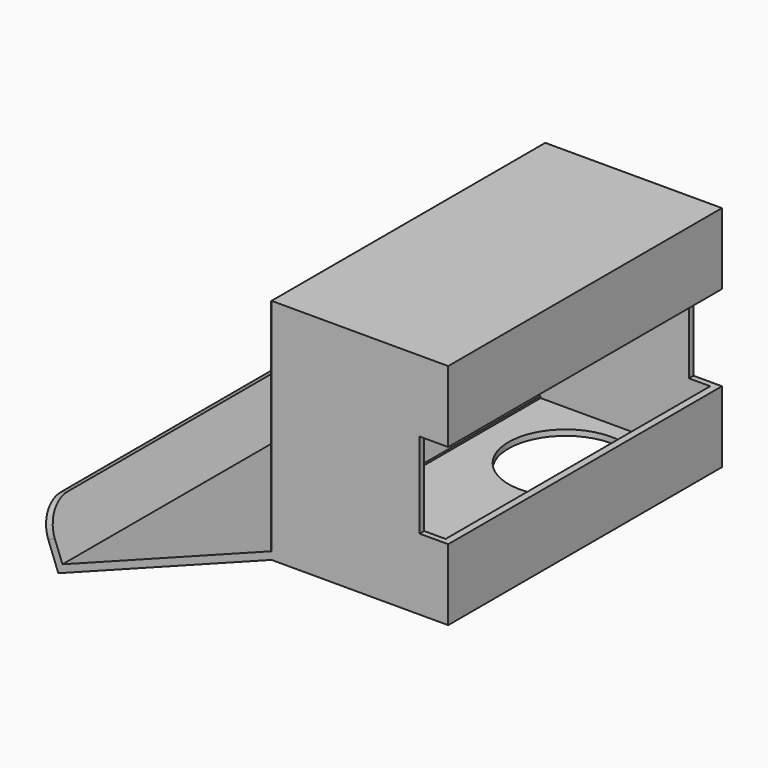
from build123d import *

# Parameters (mm, degrees)
F0_R       = 4.7625
F1_DEPTH   = 19.05
F2_W       = 3.175
F2_H       = 3.3072910916
F3_DEPTH   = 12.7
F4_W       = 152.4
F4_H       = 101.6
F5_DEPTH   = 76.2
F6_T       = -2.54
F7_W       = 152.4
F7_H       = 101.6
F8_DEPTH   = 3.175
F9_W       = 177.8
F9_H       = 38.1
F10_DEPTH  = 12.7
F11_R      = 25.4
F12_DEPTH  = 25.4
F13_R      = 0.79375
F14_DEPTH  = 4.7625
F15_SIZE   = 0.6858
F15_2_SIZE = 0.6858
F16_R      = 1.5875
F17_DEPTH  = 1.27
F18_R      = 0.762
F19_W      = 0.2193674445
F19_H      = 1.16994977
F20_DEPTH  = 0.762
F21_W      = 0.8484892041
F21_H      = 0.2032797784
F22_DEPTH  = 0.762
F24_W      = 147.32
F24_H      = 96.52
F25_DEPTH  = 25.4
F27_DEPTH  = 152.4
F28_R      = 12.7


with BuildPart() as f1:
    # F0 (on Front) → F1 (new body, symmetric)
    with BuildSketch(Plane.XZ):
        Circle(F0_R)
    extrude(amount=F1_DEPTH, both=True)

    # F2 (on Right) → F3 (cut, symmetric)
    with BuildSketch(Plane.YZ):
        with Locations((0, 4.8286455458)):
            Rectangle(F2_W, F2_H)
        with Locations((9.525, 4.8286455458)):
            Rectangle(F2_W, F2_H)
        with Locations((-9.525, 4.8286455458)):
            Rectangle(F2_W, F2_H)
    extrude(amount=F3_DEPTH, both=True, mode=Mode.SUBTRACT)


with BuildPart() as f5:
    # F4 (on Right) → F5 (new body)
    with BuildSketch(Plane.YZ):
        with Locations((6.5414318815, 57.7133724002)):
            Rectangle(F4_W, F4_H)
    extrude(amount=F5_DEPTH)

    # F6
    f6_openings = [f5.faces().sort_by_distance(p)[0] for p in [
        (76.2, 6.541432, 57.713372),
    ]]
    offset(amount=F6_T, openings=f6_openings)

    # F7 (on face) → F8 (join)
    with BuildSketch(Plane.YZ.offset(76.2)):
        with Locations((6.5414318815, 57.7133724002)):
            Rectangle(F7_W, F7_H)
    extrude(amount=F8_DEPTH)

    # F9 (on face) → F10 (cut)
    with BuildSketch(Plane.YZ.offset(79.375)):
        with Locations((6.8365962322, 57.7133724002)):
            Rectangle(F9_W, F9_H)
    extrude(amount=-F10_DEPTH, mode=Mode.SUBTRACT)

    # F11 (on face) → F12 (cut)
    with BuildSketch(Plane(origin=(0, 0, 6.9133724002), x_dir=(1, 0, 0), z_dir=(0, 0, -1))):
        with Locations((38.0439981818, -47.3570302129)):
            Circle(F11_R)
    extrude(amount=-F12_DEPTH, mode=Mode.SUBTRACT)

    # F15#2
    f15_2_edges = [f5.edges().sort_by_distance(p)[0] for p in [
        (0, 82.741432, 57.713372),
        (0, 6.541432, 108.513372),
        (0, -69.658568, 57.713372),
        (0, 6.541432, 6.913372),
    ]]
    chamfer(f15_2_edges, length=F15_2_SIZE)

    # F24 (on face) → F25 (cut)
    with BuildSketch(Plane(origin=(0, 0, 0), x_dir=(0, -1, 0), z_dir=(-1, 0, 0))):
        with Locations((-6.5414318815, 57.7133724002)):
            Rectangle(F24_W, F24_H)
    extrude(amount=-F25_DEPTH, mode=Mode.SUBTRACT)

    # F26 (on face) → F27 (join, through all)
    with BuildSketch(Plane.XZ.offset(69.6585681185)):
        Polygon((-94.2842701869, -29.1871230077), (0.6858, 6.9133724002), (0.6858, 10.3100214641), (-92.4445959751, -25.0911678329), (-100.3415793455, -4.3164649795), (-103.3093940389, -5.444605461), align=None)
    extrude(amount=-F27_DEPTH)

    # F28
    f28_edges = [f5.edges().sort_by_distance(p)[0] for p in [
        (-101.825487, 82.741432, -4.880535),
        (-101.825487, -69.658568, -4.880535),
    ]]
    fillet(f28_edges, radius=F28_R)


with BuildPart() as f14:
    # F13 (on Front) → F14 (new body)
    with BuildSketch(Plane.XZ):
        with Locations((-47.8815212846, 23.7973220646)):
            Circle(F13_R)
    extrude(amount=F14_DEPTH)

    # F15
    f15_edges = [f14.edges().sort_by_distance(p)[0] for p in [
        (-48.675271, -4.7625, 23.797322),
    ]]
    chamfer(f15_edges, length=F15_SIZE)

    # F16 (on face) → F17 (join)
    with BuildSketch(Plane(origin=(0, 0, 0), x_dir=(-1, 0, 0), z_dir=(0, 1, 0))):
        with Locations((47.8815212846, 23.7973220646)):
            Circle(F16_R)
    extrude(amount=F17_DEPTH)

    # F18
    f18_edges = [f14.edges().sort_by_distance(p)[0] for p in [
        (-46.294021, 1.27, 23.797322),
    ]]
    fillet(f18_edges, radius=F18_R)

    # F19 (on face) → F20 (cut)
    with BuildSketch(Plane(origin=(0, 1.27, 0), x_dir=(-1, 0, 0), z_dir=(0, 1, 0))):
        with Locations((47.8660054505, 23.7711463124)):
            Rectangle(F19_W, F19_H)
    extrude(amount=-F20_DEPTH, mode=Mode.SUBTRACT)

    # F21 (on face) → F22 (cut)
    with BuildSketch(Plane(origin=(0, 1.27, 0), x_dir=(-1, 0, 0), z_dir=(0, 1, 0))):
        with Locations((47.8733357295, 23.7765004858)):
            Rectangle(F21_W, F21_H)
    extrude(amount=-F22_DEPTH, mode=Mode.SUBTRACT)


solid = Compound([f1.part, f5.part, f14.part])
